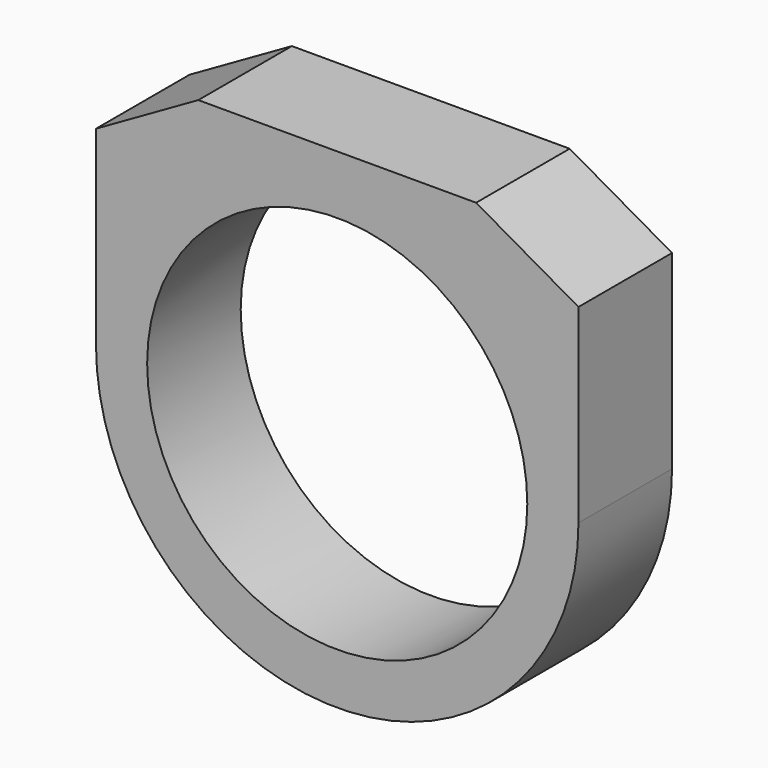
from build123d import *

# Parameters (mm, degrees)
F0_R     = 8.255
F1_DEPTH = 5.08


with BuildPart() as f1:
    # F0 (on Front) → F1 (new body)
    with BuildSketch(Plane.XZ):
        with BuildLine():
            ThreePointArc((-10.4775, 0), (0, 10.4775), (10.4775, 0))
            Line((10.4775, 0), (10.4775, 8.255))
            Line((10.4775, 8.255), (6.0325, 10.795))
            Line((6.0325, 10.795), (-6.0325, 10.795))
            Line((-6.0325, 10.795), (-10.4775, 8.255))
            Line((-10.4775, 8.255), (-10.4775, 0))
        make_face()
        with BuildLine():
            ThreePointArc((-10.4775, 0), (0, -10.4775), (10.4775, 0))
            ThreePointArc((10.4775, 0), (0, 10.4775), (-10.4775, 0))
        make_face()
        Circle(F0_R, mode=Mode.SUBTRACT)
    extrude(amount=F1_DEPTH)


solid = f1.part
